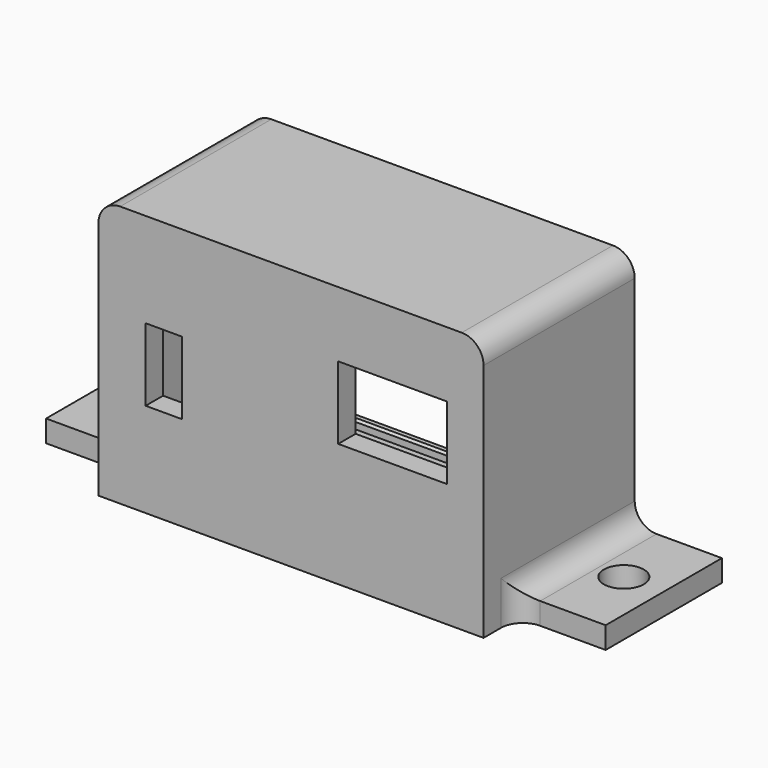
from build123d import *

# Parameters (mm, degrees)
F0_W       = 47
F0_H       = 30
F1_DEPTH   = 23
F0_W_2     = 12
F0_H_2     = 3
F2_DEPTH   = 20
F3_W       = 47
F3_H       = 1.2
F4_DEPTH   = 1.2
F5_SIZE    = 0.3
F8_D       = 5.5
F8_ON_F7_D = 5.5
F9_W       = 53
F9_H       = 36
F9_W_2     = 5
F9_H_2     = 10
F9_W_3     = 15
F10_DEPTH  = 3
F11_R      = 3


with BuildPart() as f1:
    # F0 (on Front) → F1 (new body)
    with BuildSketch(Plane.XZ):
        Polygon((-26.5, -18), (26.5, -18), (26.5, -15), (26.5, 18), (-26.5, 18), (-26.5, -15), align=None)
        Rectangle(F0_W, F0_H, mode=Mode.SUBTRACT)
    extrude(amount=F1_DEPTH)

    # F0 (on Front) → F2 (join)
    with BuildSketch(Plane.XZ):
        with Locations((-32.5, -16.5)):
            Rectangle(F0_W_2, F0_H_2)
        with Locations((32.5, -16.5)):
            Rectangle(F0_W_2, F0_H_2)
    extrude(amount=F2_DEPTH)

    # F3 (on face) → F4 (join)
    with BuildSketch(Plane(origin=(0, 0, 0), x_dir=(-1, 0, 0), z_dir=(0, 1, 0))):
        with Locations((0, 14.4)):
            Rectangle(F3_W, F3_H)
        with Locations((0, -14.4)):
            Rectangle(F3_W, F3_H)
    extrude(amount=-F4_DEPTH)

    # F5
    f5_edges = [f1.edges().sort_by_distance(p)[0] for p in [
        (0, 0, -13.8),
        (0, -1.2, -13.8),
        (0, 0, 13.8),
        (0, -1.2, 13.8),
    ]]
    chamfer(f5_edges, length=F5_SIZE)

    # F8 (through all)
    with Locations(Plane.XY.offset(-15)):
        with Locations((-33, -10)):
            Hole(F8_D / 2)

    # F8 on F7 (through all)
    with Locations(Plane.XY.offset(-15)):
        with Locations((33, -10)):
            Hole(F8_ON_F7_D / 2)

    # F9 (on face) → F10 (join)
    with BuildSketch(Plane.XZ.offset(23)):
        Rectangle(F9_W, F9_H)
        with Locations((-17.5, 0)):
            Rectangle(F9_W_2, F9_H_2, mode=Mode.SUBTRACT)
        with Locations((14, 4)):
            Rectangle(F9_W_3, F9_H_2, mode=Mode.SUBTRACT)
    extrude(amount=F10_DEPTH)

    # F11
    f11_edges = [f1.edges().sort_by_distance(p)[0] for p in [
        (-26.5, -10, -15),
        (-26.5, -13, 18),
        (26.5, -13, 18),
        (26.5, -10, -15),
        (26.5, -20, -16.5),
        (-26.5, -20, -16.5),
    ]]
    fillet(f11_edges, radius=F11_R)


solid = f1.part
